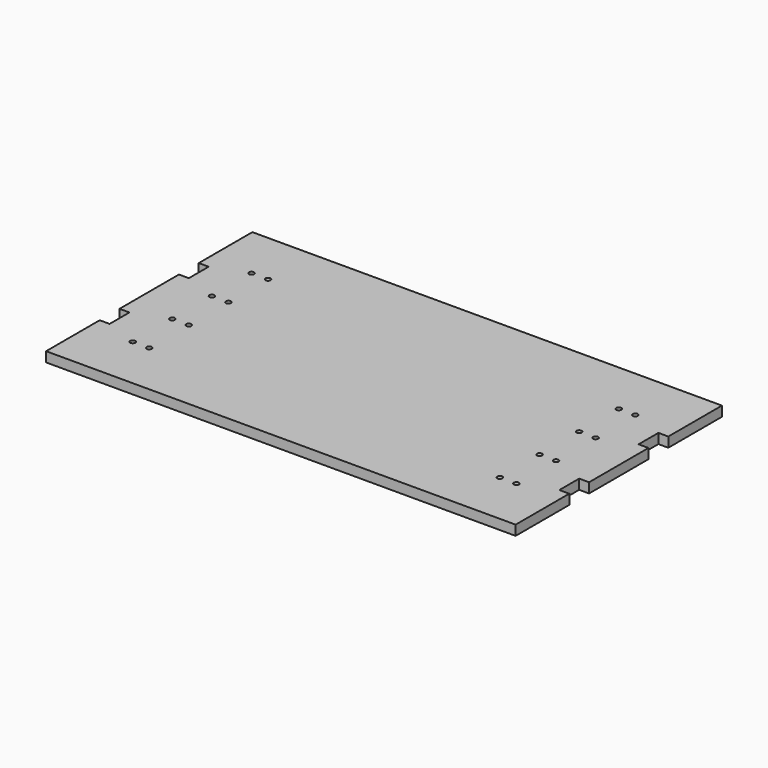
from build123d import *

# Parameters (mm, degrees)
F0_R     = 1.55
F1_DEPTH = 6


with BuildPart() as f1:
    # F0 (on Top) → F1 (new body)
    with BuildSketch(Plane.XY):
        Polygon((-284.438, 0), (0, 0), (0, 40.6), (-6, 40.6), (-6, 55.6), (0, 55.6), (0, 100.6), (-6, 100.6), (-6, 115.6), (0, 115.6), (0, 156.2), (-284.438, 156.2), (-284.438, 115.6), (-278.438, 115.6), (-278.438, 100.6), (-284.438, 100.6), (-284.438, 55.6), (-278.438, 55.6), (-278.438, 40.6), (-284.438, 40.6), align=None)
        with Locations((-258.438, 33.1)):
            Circle(F0_R, mode=Mode.SUBTRACT)
        with Locations((-248.438, 33.1)):
            Circle(F0_R, mode=Mode.SUBTRACT)
        with Locations((-258.438, 63.1)):
            Circle(F0_R, mode=Mode.SUBTRACT)
        with Locations((-248.438, 63.1)):
            Circle(F0_R, mode=Mode.SUBTRACT)
        with Locations((-36, 33.1)):
            Circle(F0_R, mode=Mode.SUBTRACT)
        with Locations((-26, 33.1)):
            Circle(F0_R, mode=Mode.SUBTRACT)
        with Locations((-36, 63.1)):
            Circle(F0_R, mode=Mode.SUBTRACT)
        with Locations((-26, 63.1)):
            Circle(F0_R, mode=Mode.SUBTRACT)
        with Locations((-258.438, 93.1)):
            Circle(F0_R, mode=Mode.SUBTRACT)
        with Locations((-248.438, 93.1)):
            Circle(F0_R, mode=Mode.SUBTRACT)
        with Locations((-258.438, 123.1)):
            Circle(F0_R, mode=Mode.SUBTRACT)
        with Locations((-248.438, 123.1)):
            Circle(F0_R, mode=Mode.SUBTRACT)
        with Locations((-36, 93.1)):
            Circle(F0_R, mode=Mode.SUBTRACT)
        with Locations((-26, 93.1)):
            Circle(F0_R, mode=Mode.SUBTRACT)
        with Locations((-36, 123.1)):
            Circle(F0_R, mode=Mode.SUBTRACT)
        with Locations((-26, 123.1)):
            Circle(F0_R, mode=Mode.SUBTRACT)
    extrude(amount=F1_DEPTH)


solid = f1.part
